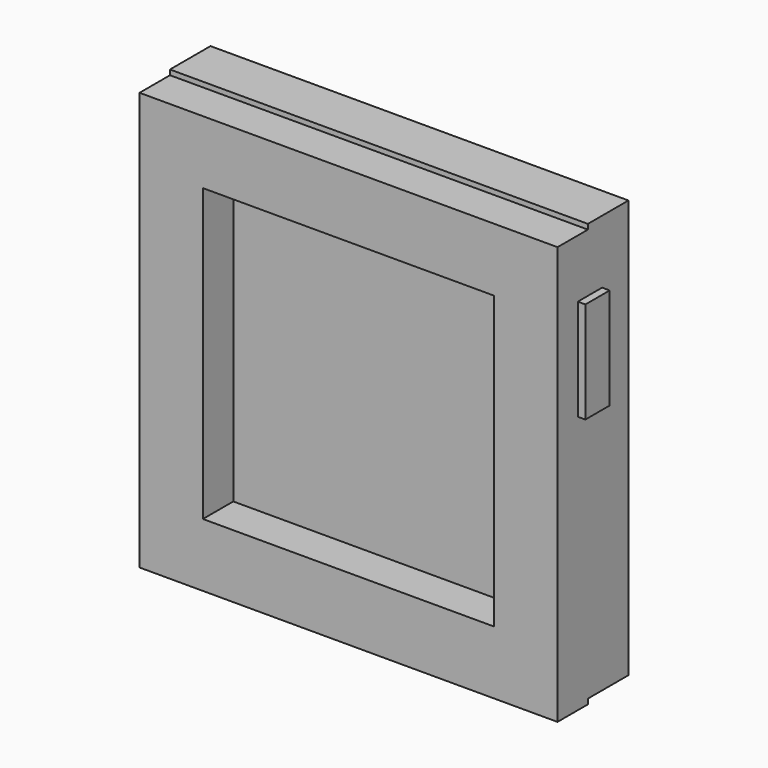
from build123d import *

# Parameters (mm, degrees)
BOX024_W                  = 115
BOX024_H                  = 115
BOX024_DEPTH              = 2
BOX023_W                  = 115
BOX023_H                  = 115
BOX023_DEPTH              = 60
BOX022_W                  = 20
BOX022_H                  = 165
BOX022_DEPTH              = 165
BOX025_W                  = 9
BOX025_H                  = 3
BOX025_DEPTH              = 30
BOX026_W                  = 9
BOX026_H                  = 3
BOX026_DEPTH              = 30
BOX021_W                  = 115
BOX021_H                  = 115
BOX021_DEPTH              = 60
BOX020_W                  = 165
BOX020_H                  = 165
BOX020_DEPTH              = 15
CUT006_PLACEMENT_ANGLE    = 90
BOX027_W                  = 12
BOX027_H                  = 5
BOX027_DEPTH              = 40
FUSION003_PLACEMENT_ANGLE = 90


with BuildPart() as cube019:
    # Box024 → Box024 (new body)
    with BuildSketch(Plane(origin=(129, -57, 61), x_dir=(0, 0, 1), z_dir=(-1, 0, 0))):
        with Locations((57.5, 57.5)):
            Rectangle(BOX024_W, BOX024_H)
    extrude(amount=BOX024_DEPTH)


with BuildPart() as cube018:
    # Box023 → Box023 (new body)
    with BuildSketch(Plane(origin=(149, -57, 61), x_dir=(0, 0, 1), z_dir=(-1, 0, 0))):
        with Locations((57.5, 57.5)):
            Rectangle(BOX023_W, BOX023_H)
    extrude(amount=BOX023_DEPTH)


with BuildPart() as cut007:
    # Box022 → Box022 (new body)
    with BuildSketch(Plane(origin=(109, -82, 38), x_dir=(1, 0, 0), z_dir=(0, 0, 1))):
        with Locations((10, 82.5)):
            Rectangle(BOX022_W, BOX022_H)
    extrude(amount=BOX022_DEPTH)

    # Cut007: cut Cube018
    add(cube018.part, mode=Mode.SUBTRACT)


with BuildPart() as cube020:
    # Box025 → Box025 (new body)
    with BuildSketch(Plane(origin=(105, -60, 140), x_dir=(1, 0, 0), z_dir=(0, 0, 1))):
        with Locations((4.5, 1.5)):
            Rectangle(BOX025_W, BOX025_H)
    extrude(amount=BOX025_DEPTH)


with BuildPart() as cube021:
    # Box026 → Box026 (new body)
    with BuildSketch(Plane(origin=(105, 58, 140), x_dir=(1, 0, 0), z_dir=(0, 0, 1))):
        with Locations((4.5, 1.5)):
            Rectangle(BOX026_W, BOX026_H)
    extrude(amount=BOX026_DEPTH)


with BuildPart() as cube016:
    # Box021 → Box021 (new body)
    with BuildSketch(Plane(origin=(25, 25, -7), x_dir=(1, 0, 0), z_dir=(0, 0, 1))):
        with Locations((57.5, 57.5)):
            Rectangle(BOX021_W, BOX021_H)
    extrude(amount=BOX021_DEPTH)


with BuildPart() as bellows001:
    # Box020 → Box020 (new body)
    with BuildSketch(Plane.XY):
        with Locations((82.5, 82.5)):
            Rectangle(BOX020_W, BOX020_H)
    extrude(amount=BOX020_DEPTH)

    # Cut006: cut Cube016
    add(cube016.part, mode=Mode.SUBTRACT)


with BuildPart() as bellows001_1:
    # Cut006 placement: moved
    add(bellows001.part.moved(Location((144, -82, 36))).rotate(Axis((144, -82, 36), (0, -1, 0)), CUT006_PLACEMENT_ANGLE))


with BuildPart() as ground_glass:
    # Box027 → Box027 (new body)
    with BuildSketch(Plane(origin=(122, 81, 138), x_dir=(1, 0, 0), z_dir=(0, 0, 1))):
        with Locations((6, 2.5)):
            Rectangle(BOX027_W, BOX027_H)
    extrude(amount=BOX027_DEPTH)

    # Fusion003: union Cube019, Cut007, Cube020, Cube021, bellows001
    add(cube019.part)
    add(cut007.part)
    add(cube020.part)
    add(cube021.part)
    add(bellows001_1.part)


with BuildPart() as ground_glass_1:
    # Fusion003 placement: moved
    add(ground_glass.part.moved(Location((84.5, 551, -34))).rotate(Axis((84.5, 551, -34), (0, 0, -1)), FUSION003_PLACEMENT_ANGLE))


solid = ground_glass_1.part
